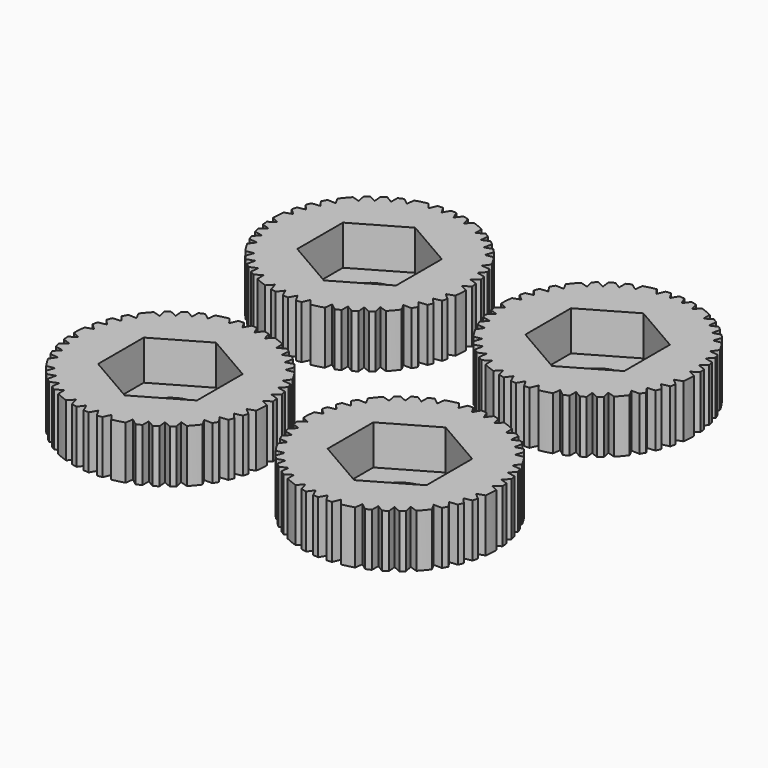
from build123d import *

# Parameters (mm, degrees)
F1_DEPTH = 6
F3_DEPTH = 4.5
F4_R     = 3.15
F5_DEPTH = 6.001


with BuildPart() as f1:
    # F0 (on Top) → F1 (new body)
    with BuildSketch(Plane.XY):
        with BuildLine():
            Line((10.1962088537, 0.3062033787), (10.9682872474, 0.8346705085))
            ThreePointArc((10.9682872474, 0.8346705085), (10.9394868573, 1.1522271042), (10.9014944363, 1.4688155278))
            Line((10.9014944363, 1.4688155278), (10.0481959779, 1.7548203265))
            Line((10.0481959779, 1.7548203265), (10.7420781502, 2.3680703147))
            ThreePointArc((10.7420781502, 2.3680703147), (10.6719998967, 2.666161699), (10.5936513341, 2.9621869307))
            Line((10.5936513341, 2.9621869307), (9.7007764662, 3.1519733426))
            Line((9.7007764662, 3.1519733426), (10.3115737541, 3.8303324546))
            ThreePointArc((10.3115737541, 3.8303324546), (10.2032122353, 4.1102871044), (10.0872516993, 4.3871805474))
            Line((10.0872516993, 4.3871805474), (9.1676483871, 4.471903426))
            Line((9.1676483871, 4.471903426), (9.6886271551, 5.2086950237))
            ThreePointArc((9.6886271551, 5.2086950237), (9.336063552, 5.817036819), (8.945354735, 6.4016114116))
            Line((8.945354735, 6.4016114116), (8.0689244107, 6.2409049307))
            Line((8.0689244107, 6.2409049307), (8.3829237669, 7.1222601131))
            ThreePointArc((8.3829237669, 7.1222601131), (8.1729686781, 7.3622403511), (7.9561461575, 7.5960343812))
            Line((7.9561461575, 7.5960343812), (7.0977038005, 7.3258608742))
            Line((7.0977038005, 7.3258608742), (7.2986069711, 8.2298442441))
            ThreePointArc((7.2986069711, 8.2298442441), (7.0666987535, 8.429814276), (6.8293141693, 8.6232515895))
            Line((6.8293141693, 8.6232515895), (5.9954095734, 8.2519733426))
            Line((5.9954095734, 8.2519733426), (6.0908254776, 9.1597950305))
            ThreePointArc((6.0908254776, 9.1597950305), (5.838605953, 9.3225897972), (5.5820380264, 9.4784414052))
            Line((5.5820380264, 9.4784414052), (4.7882644601, 9.006454389))
            Line((4.7882644601, 9.006454389), (4.776669902, 9.9087549494))
            ThreePointArc((4.776669902, 9.9087549494), (4.1338656199, 10.1936821138), (3.4741712227, 10.4369600131))
            Line((3.4741712227, 10.4369600131), (2.8595850953, 9.7917929196))
            Line((2.8595850953, 9.7917929196), (2.5955683325, 10.6893884311))
            ThreePointArc((2.5955683325, 10.6893884311), (2.2846542529, 10.7601280171), (1.971820466, 10.8218262807))
            Line((1.971820466, 10.8218262807), (1.4361300135, 10.0986715647))
            Line((1.4361300135, 10.0986715647), (1.0673159995, 10.9480973944))
            ThreePointArc((1.0673159995, 10.9480973944), (0.7621588747, 10.9735643184), (0.4564111118, 10.9905272347))
            Line((0.4564111118, 10.9905272347), (0, 10.2))
            Line((0, 10.2), (-0.4564111118, 10.9905272347))
            ThreePointArc((-0.4564111118, 10.9905272347), (-0.7561493565, 10.9739800506), (-1.0553244461, 10.9492598066))
            Line((-1.0553244461, 10.9492598066), (-1.4200737435, 10.1008458935))
            Line((-1.4200737435, 10.1008458935), (-1.9598129006, 10.8240072706))
            ThreePointArc((-1.9598129006, 10.8240072706), (-2.6473284741, 10.6766873116), (-3.324027614, 10.4857446288))
            Line((-3.324027614, 10.4857446288), (-3.4420185327, 9.6025488241))
            Line((-3.4420185327, 9.6025488241), (-4.1832059847, 10.1735336874))
            ThreePointArc((-4.1832059847, 10.1735336874), (-4.4763204444, 10.0480125039), (-4.7656736238, 9.9140483613))
            Line((-4.7656736238, 9.9140483613), (-4.7739966265, 9.0141329588))
            Line((-4.7739966265, 9.0141329588), (-5.5716534071, 9.4845494522))
            ThreePointArc((-5.5716534071, 9.4845494522), (-5.8334997894, 9.3257857689), (-6.0908254776, 9.1597950305))
            Line((-6.0908254776, 9.1597950305), (-5.9954095734, 8.2519733426))
            Line((-5.9954095734, 8.2519733426), (-6.8293141693, 8.6232515895))
            ThreePointArc((-6.8293141693, 8.6232515895), (-7.0620813124, 8.4336829165), (-7.2895888494, 8.2378331136))
            Line((-7.2895888494, 8.2378331136), (-7.0859920436, 7.3370575818))
            Line((-7.0859920436, 7.3370575818), (-7.9477137868, 7.6048567089))
            ThreePointArc((-7.9477137868, 7.6048567089), (-8.4173330703, 7.0815608437), (-8.8525608816, 6.5293311937))
            Line((-8.8525608816, 6.5293311937), (-8.4288880711, 5.7454574564))
            Line((-8.4288880711, 5.7454574564), (-9.3641377978, 5.7717348608))
            ThreePointArc((-9.3641377978, 5.7717348608), (-9.5274928764, 5.4978977336), (-9.6828423686, 5.2194409341))
            Line((-9.6828423686, 5.2194409341), (-9.1606188173, 4.4865019417))
            Line((-9.1606188173, 4.4865019417), (-10.0824405858, 4.3982259872))
            ThreePointArc((-10.0824405858, 4.3982259872), (-10.2009598073, 4.1158740275), (-10.3115737541, 3.8303324546))
            Line((-10.3115737541, 3.8303324546), (-9.7007764662, 3.1519733426))
            Line((-9.7007764662, 3.1519733426), (-10.5936513341, 2.9621869307))
            ThreePointArc((-10.5936513341, 2.9621869307), (-10.6705382383, 2.6720055587), (-10.7394780761, 2.3798341648))
            Line((-10.7394780761, 2.3798341648), (-10.0453022271, 1.7707626513))
            Line((-10.0453022271, 1.7707626513), (-10.8998581392, 1.480909364))
            ThreePointArc((-10.8998581392, 1.480909364), (-10.9722025284, 0.7815188269), (-10.99971678, 0.0789351664))
            Line((-10.99971678, 0.0789351664), (-10.1962088537, -0.3062033787))
            Line((-10.1962088537, -0.3062033787), (-10.9682872474, -0.8346705085))
            ThreePointArc((-10.9682872474, -0.8346705085), (-10.9394868573, -1.1522271042), (-10.9014944363, -1.4688155278))
            Line((-10.9014944363, -1.4688155278), (-10.0481959779, -1.7548203265))
            Line((-10.0481959779, -1.7548203265), (-10.7420781502, -2.3680703147))
            ThreePointArc((-10.7420781502, -2.3680703147), (-10.6719998967, -2.666161699), (-10.5936513341, -2.9621869307))
            Line((-10.5936513341, -2.9621869307), (-9.7007764662, -3.1519733426))
            Line((-9.7007764662, -3.1519733426), (-10.3115737541, -3.8303324546))
            ThreePointArc((-10.3115737541, -3.8303324546), (-10.2032122353, -4.1102871044), (-10.0872516993, -4.3871805474))
            Line((-10.0872516993, -4.3871805474), (-9.1676483871, -4.471903426))
            Line((-9.1676483871, -4.471903426), (-9.6886271551, -5.2086950237))
            ThreePointArc((-9.6886271551, -5.2086950237), (-9.336063552, -5.817036819), (-8.945354735, -6.4016114116))
            Line((-8.945354735, -6.4016114116), (-8.0689244107, -6.2409049307))
            Line((-8.0689244107, -6.2409049307), (-8.3829237669, -7.1222601131))
            ThreePointArc((-8.3829237669, -7.1222601131), (-8.1729686781, -7.3622403511), (-7.9561461575, -7.5960343812))
            Line((-7.9561461575, -7.5960343812), (-7.0977038005, -7.3258608742))
            Line((-7.0977038005, -7.3258608742), (-7.2986069711, -8.2298442441))
            ThreePointArc((-7.2986069711, -8.2298442441), (-7.0666987535, -8.429814276), (-6.8293141693, -8.6232515895))
            Line((-6.8293141693, -8.6232515895), (-5.9954095734, -8.2519733426))
            Line((-5.9954095734, -8.2519733426), (-6.0908254776, -9.1597950305))
            ThreePointArc((-6.0908254776, -9.1597950305), (-5.838605953, -9.3225897972), (-5.5820380264, -9.4784414052))
            Line((-5.5820380264, -9.4784414052), (-4.7882644601, -9.006454389))
            Line((-4.7882644601, -9.006454389), (-4.776669902, -9.9087549494))
            ThreePointArc((-4.776669902, -9.9087549494), (-4.1338656199, -10.1936821138), (-3.4741712227, -10.4369600131))
            Line((-3.4741712227, -10.4369600131), (-2.8595850953, -9.7917929196))
            Line((-2.8595850953, -9.7917929196), (-2.5955683325, -10.6893884311))
            ThreePointArc((-2.5955683325, -10.6893884311), (-2.2846542529, -10.7601280171), (-1.971820466, -10.8218262807))
            Line((-1.971820466, -10.8218262807), (-1.4361300135, -10.0986715647))
            Line((-1.4361300135, -10.0986715647), (-1.0673159995, -10.9480973944))
            ThreePointArc((-1.0673159995, -10.9480973944), (-0.7621588747, -10.9735643184), (-0.4564111118, -10.9905272347))
            Line((-0.4564111118, -10.9905272347), (0, -10.2))
            Line((0, -10.2), (0.4564111118, -10.9905272347))
            ThreePointArc((0.4564111118, -10.9905272347), (0.7561493565, -10.9739800506), (1.0553244461, -10.9492598066))
            Line((1.0553244461, -10.9492598066), (1.4200737435, -10.1008458935))
            Line((1.4200737435, -10.1008458935), (1.9598129006, -10.8240072706))
            ThreePointArc((1.9598129006, -10.8240072706), (2.6473284741, -10.6766873116), (3.324027614, -10.4857446288))
            Line((3.324027614, -10.4857446288), (3.4420185327, -9.6025488241))
            Line((3.4420185327, -9.6025488241), (4.1832059847, -10.1735336874))
            ThreePointArc((4.1832059847, -10.1735336874), (4.4763204444, -10.0480125039), (4.7656736238, -9.9140483613))
            Line((4.7656736238, -9.9140483613), (4.7739966265, -9.0141329588))
            Line((4.7739966265, -9.0141329588), (5.5716534071, -9.4845494522))
            ThreePointArc((5.5716534071, -9.4845494522), (5.8334997894, -9.3257857689), (6.0908254776, -9.1597950305))
            Line((6.0908254776, -9.1597950305), (5.9954095734, -8.2519733426))
            Line((5.9954095734, -8.2519733426), (6.8293141693, -8.6232515895))
            ThreePointArc((6.8293141693, -8.6232515895), (7.0620813124, -8.4336829165), (7.2895888494, -8.2378331136))
            Line((7.2895888494, -8.2378331136), (7.0859920436, -7.3370575818))
            Line((7.0859920436, -7.3370575818), (7.9477137868, -7.6048567089))
            ThreePointArc((7.9477137868, -7.6048567089), (8.4173330703, -7.0815608437), (8.8525608816, -6.5293311937))
            Line((8.8525608816, -6.5293311937), (8.4288880711, -5.7454574564))
            Line((8.4288880711, -5.7454574564), (9.3641377978, -5.7717348608))
            ThreePointArc((9.3641377978, -5.7717348608), (9.5274928764, -5.4978977336), (9.6828423686, -5.2194409341))
            Line((9.6828423686, -5.2194409341), (9.1606188173, -4.4865019417))
            Line((9.1606188173, -4.4865019417), (10.0824405858, -4.3982259872))
            ThreePointArc((10.0824405858, -4.3982259872), (10.2009598073, -4.1158740275), (10.3115737541, -3.8303324546))
            Line((10.3115737541, -3.8303324546), (9.7007764662, -3.1519733426))
            Line((9.7007764662, -3.1519733426), (10.5936513341, -2.9621869307))
            ThreePointArc((10.5936513341, -2.9621869307), (10.6705382383, -2.6720055587), (10.7394780761, -2.3798341648))
            Line((10.7394780761, -2.3798341648), (10.0453022271, -1.7707626513))
            Line((10.0453022271, -1.7707626513), (10.8998581392, -1.480909364))
            ThreePointArc((10.8998581392, -1.480909364), (10.9722025284, -0.7815188269), (10.99971678, -0.0789351664))
            Line((10.99971678, -0.0789351664), (10.1962088537, 0.3062033787))
        make_face()
    extrude(amount=F1_DEPTH)

    # F2 (on face) → F3 (cut)
    with BuildSketch(Plane.XY.offset(6)):
        Polygon((5.6, -3.2331615075), (5.6, 3.2331615075), (0, 6.4663230149), (-5.6, 3.2331615075), (-5.6, -3.2331615075), (0, -6.4663230149), align=None)
    extrude(amount=-F3_DEPTH, mode=Mode.SUBTRACT)

    # F4 (on face) → F5 (cut, through all)
    with BuildSketch(Plane(origin=(0, 0, 0), x_dir=(1, 0, 0), z_dir=(0, 0, -1))):
        Circle(F4_R)
    extrude(amount=-F5_DEPTH, mode=Mode.SUBTRACT)


with BuildPart() as f6_1:
    # F6: copy of F1
    add(f1.part.moved(Location((0, 28.2, 0))))


with BuildPart() as f7_1:
    # F7: copy of F1
    add(f1.part.moved(Location((26, 0, 0))))


with BuildPart() as f8_1:
    # F8: copy of F7_1
    add(f7_1.part.moved(Location((0, 28, 0))))


solid = Compound([f1.part, f6_1.part, f7_1.part, f8_1.part])
